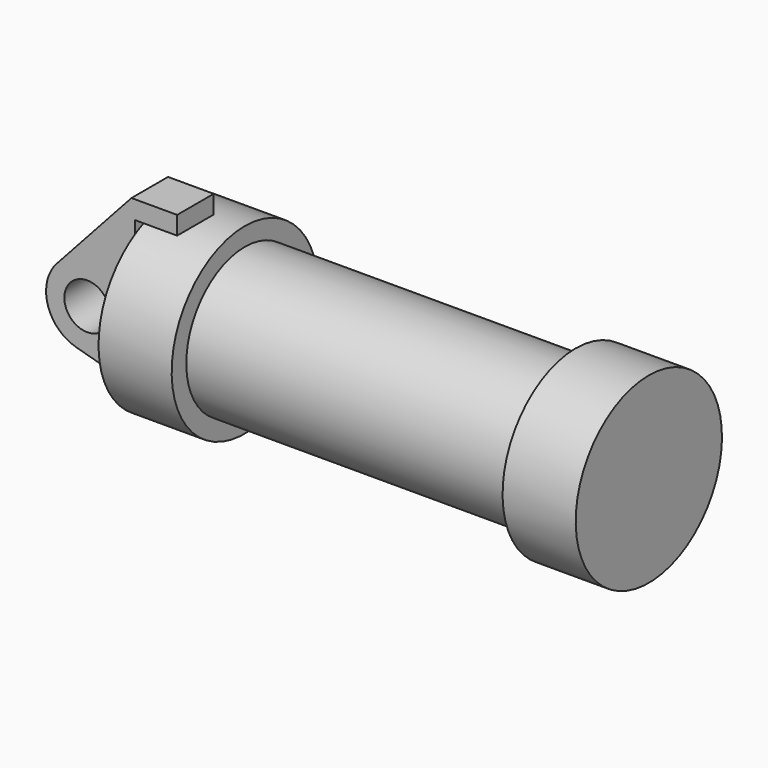
from build123d import *

# Parameters (mm, degrees)
F0_W     = 5.842
F0_H     = 12.7
F0_R     = 3.175
F2_DEPTH = 6.35


with BuildPart() as f1:
    # F0 (on Front) → F1 (revolve)
    with BuildSketch(Plane.XZ):
        with Locations((2.921, 6.35)):
            Rectangle(F0_W, F0_H)
        Polygon((5.842, 12.7), (5.842, 0), (66.294, 0), (66.294, 12.7), (56.134, 12.7), (56.134, 10.16), (10.16, 10.16), (10.16, 12.7), align=None)
    revolve(axis=Axis((33.147, 0, 0), (-1, 0, 0)))


with BuildPart() as f2:
    # F0 (on Front) → F2 (new body)
    with BuildSketch(Plane.XZ):
        with BuildLine():
            Line((-0.9398, 0), (0, 0))
            Line((0, 0), (0, 12.7))
            Line((0, 12.7), (5.842, 12.7))
            Line((5.842, 12.7), (5.842, 15.24))
            Line((5.842, 15.24), (-0.508, 15.24))
            Line((-0.508, 15.24), (-10.88063, 3.847543))
            ThreePointArc((-10.88063, 3.847543), (-4.591961, 5.329721), (-0.9398, 0))
        make_face()
        with BuildLine():
            ThreePointArc((-8.182663, -5.506983), (-3.195791, -4.549339), (-0.9398, 0))
            ThreePointArc((-0.9398, 0), (-4.591961, 5.329721), (-10.88063, 3.847543))
            ThreePointArc((-10.88063, 3.847543), (-12.145978, -1.583727), (-8.182663, -5.506983))
        make_face()
        with Locations((-6.6548, 0)):
            Circle(F0_R, mode=Mode.SUBTRACT)
        with BuildLine():
            Line((5.842, 0), (0, 0))
            Line((0, 0), (-0.9398, 0))
            ThreePointArc((-0.9398, 0), (-3.195791, -4.549339), (-8.182663, -5.506983))
            Line((-8.182663, -5.506983), (5.842, -9.398))
            Line((5.842, -9.398), (5.842, 0))
        make_face()
    extrude(amount=F2_DEPTH)


solid = Compound([f1.part, f2.part])
